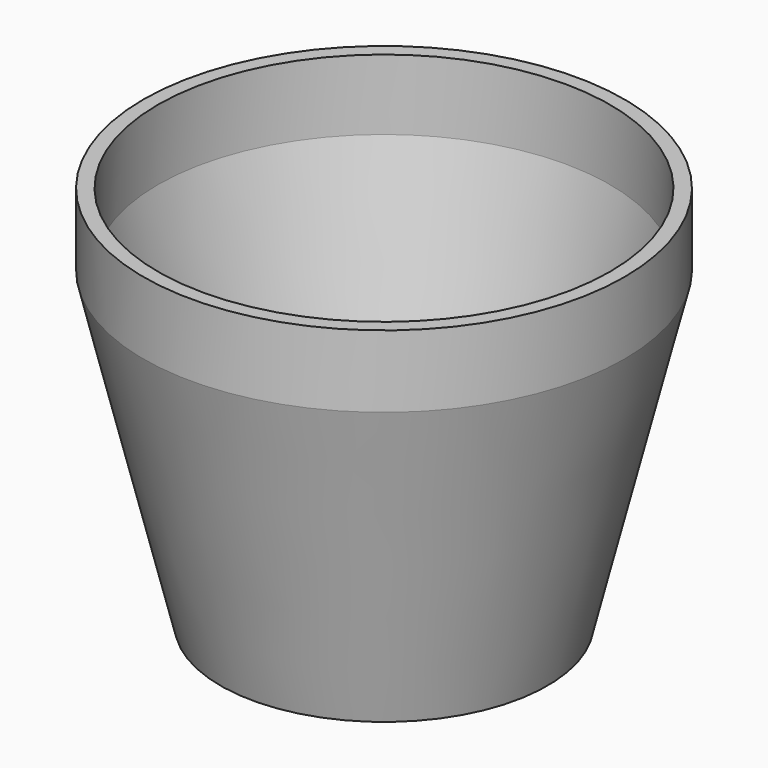
from build123d import *

# Parameters (mm, degrees)
F2_T = -3.81
F4_D = 6.35


with BuildPart() as f1:
    # F0 (on Front) → F1 (revolve)
    with BuildSketch(Plane.XZ):
        Polygon((0, -45.200619), (0, 56.399381), (-63.5, 56.399381), (-63.5, 37.349381), (-43.18, -45.200619), align=None)
    revolve(axis=Axis((0, 0, 6.864863), (0, 0, -1)))

    # F2
    f2_openings = [f1.faces().sort_by_distance(p)[0] for p in [
        (0, 0, 56.399381),
    ]]
    offset(amount=F2_T, openings=f2_openings)

    # F4 (through all)
    with Locations(Plane.XY.offset(-41.390619)):
        with Locations((0, 0)):
            Hole(F4_D / 2)


solid = f1.part
